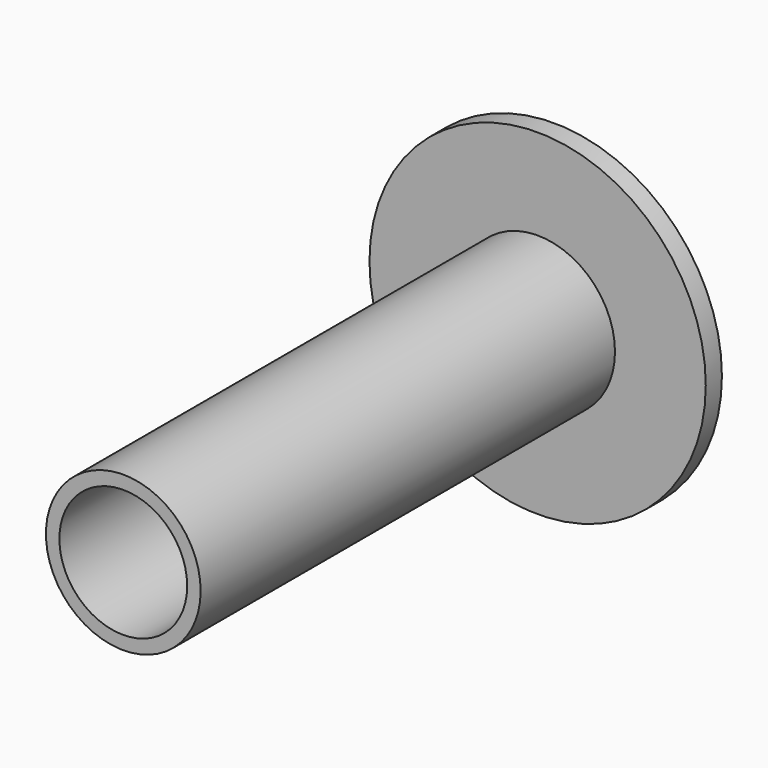
from build123d import *

# Parameters (mm, degrees)
F0_R     = 5.75
F0_R_2   = 4.75
F0_R_3   = 12.5
F1_DEPTH = 1.5
F2_DEPTH = 40
F0_R_4   = 3.5
F3_DEPTH = 7


with BuildPart() as f1:
    # F0 (on Front) → F1 (new body)
    with BuildSketch(Plane.XZ):
        Circle(F0_R)
        Circle(F0_R_2, mode=Mode.SUBTRACT)
        Circle(F0_R_3)
        Circle(F0_R, mode=Mode.SUBTRACT)
    extrude(amount=F1_DEPTH)

    # F0 (on Front) → F2 (join)
    with BuildSketch(Plane.XZ):
        Circle(F0_R)
        Circle(F0_R_2, mode=Mode.SUBTRACT)
    extrude(amount=F2_DEPTH)

    # F0 (on Front) → F3 (join)
    with BuildSketch(Plane.XZ):
        Circle(F0_R_2)
        Circle(F0_R_4, mode=Mode.SUBTRACT)
    extrude(amount=F3_DEPTH)


solid = f1.part
